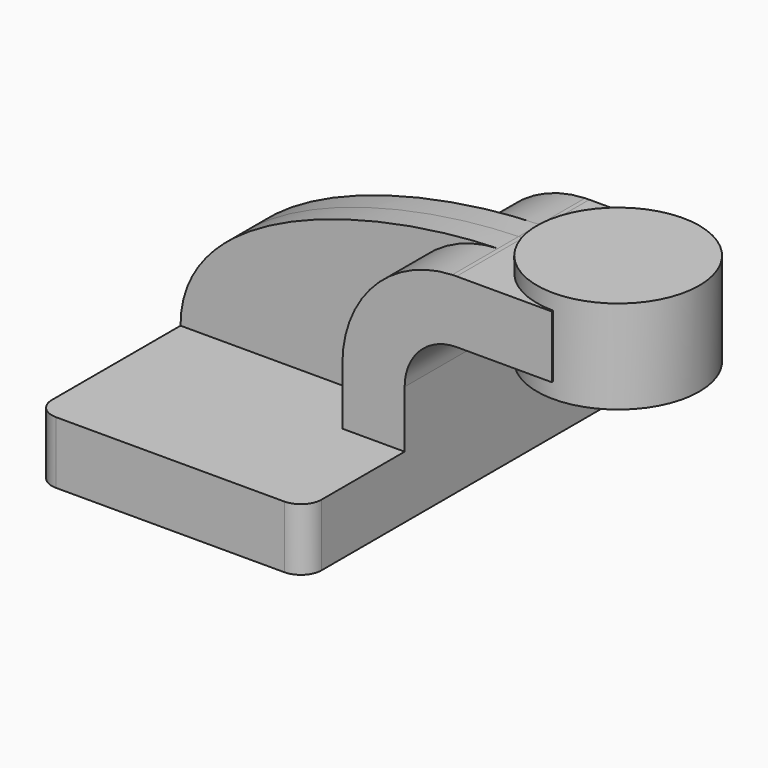
from build123d import *

# Parameters (mm, degrees)
F1_DEPTH = 63.5
F2_DEPTH = 25.4
F3_DEPTH = 7.9375
F0_W     = 25.9641238877
F0_H     = 19.05
F4_DEPTH = 25.4
F6_R     = 6.35


with BuildPart() as f1:
    # F0 (on Front) → F1 (new body, symmetric)
    with BuildSketch(Plane.XZ):
        Polygon((22.225, 9.525), (-41.275, 9.525), (-41.275, -9.525), (41.275, -9.525), (41.275, 9.525), align=None)
    extrude(amount=F1_DEPTH, both=True)

    # F0 (on Front) → F2 (join, symmetric)
    with BuildSketch(Plane.XZ):
        with BuildLine():
            Line((22.225, 27.0002), (22.225, 9.525))
            Line((22.225, 9.525), (41.275, 9.525))
            Line((41.275, 9.525), (41.275, 27.0002))
            ThreePointArc((41.275, 27.0002), (45.9246798487, 38.2255201513), (57.15, 42.8752))
            Line((57.15, 42.8752), (60.325, 42.8752))
            Line((60.325, 42.8752), (60.325, 61.9252))
            Line((60.325, 61.9252), (57.15, 61.9252))
            add(Edge.make_bspline(
                [(55.8373775892, 61.9005244599), (56.2776364161, 61.9107392271), (56.7152170121, 61.9189622944), (57.15, 61.9252)],
                knots=[110.241102344, 110.241102344, 110.241102344, 110.241102344, 111.5045361635, 111.5045361635, 111.5045361635, 111.5045361635], degree=3))
            ThreePointArc((55.8373775892, 61.9005244599), (31.9944940152, 51.2273777896), (22.225, 27.0002))
        make_face()
    extrude(amount=F2_DEPTH, both=True)

    # F0 (on Front) → F3 (join, symmetric)
    with BuildSketch(Plane.XZ):
        with BuildLine():
            add(Edge.make_bspline(
                [(-41.275, 9.525), (-41.3829236444, 44.9542144396), (17.4225293824, 61.0092334589), (55.8373775892, 61.9005244599)],
                knots=[0, 0, 0, 0, 110.241102344, 110.241102344, 110.241102344, 110.241102344], degree=3))
            Line((-41.275, 9.525), (22.225, 9.525))
            Line((22.225, 9.525), (22.225, 27.0002))
            ThreePointArc((22.225, 27.0002), (31.9944940152, 51.2273777896), (55.8373775892, 61.9005244599))
        make_face()
    extrude(amount=F3_DEPTH, both=True)

    # F0 (on Front) → F4 (join, symmetric)
    with BuildSketch(Plane.XZ):
        with Locations((73.3070619439, 52.4002)):
            Rectangle(F0_W, F0_H)
    extrude(amount=F4_DEPTH, both=True)

    # F0 (on Front) → F5 (revolve)
    with BuildSketch(Plane.XZ):
        Polygon((86.2891238877, 66.675), (86.2891238877, 61.9252), (86.2891238877, 42.8752), (86.2891238877, 38.1), (111.125, 38.1), (111.125, 66.675), align=None)
    revolve(axis=Axis((86.2891238877, 0, 50.0126), (0, 0, 1)))

    # F6
    f6_edges = [f1.edges().sort_by_distance(p)[0] for p in [
        (41.275, 63.5, 0),
        (-41.275, 63.5, 0),
        (-41.275, -63.5, 0),
        (41.275, -63.5, 0),
    ]]
    fillet(f6_edges, radius=F6_R)


solid = f1.part
